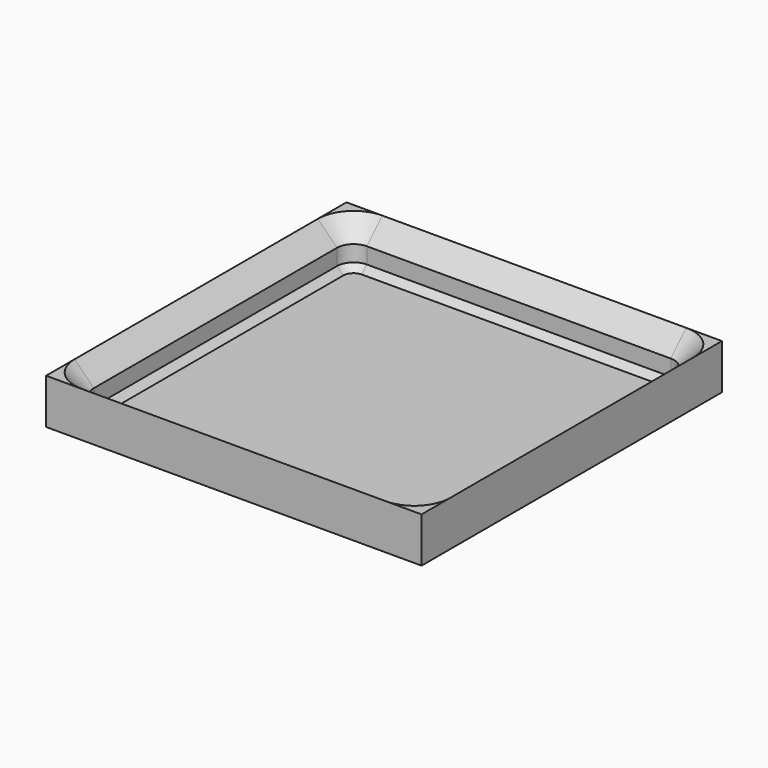
from build123d import *

# Parameters (mm, degrees)
SKETCH_W       = 42
SKETCH_H       = 42
PAD_DEPTH      = 4.65
PAD_DEPTH_BACK = 0.4
POCKET_DEPTH   = 4.651


with BuildPart() as part:
    # Sketch → Pad (new body, two sides)
    with BuildSketch(Plane.XY) as pad_sk:
        Rectangle(SKETCH_W, SKETCH_H)
    extrude(amount=PAD_DEPTH)
    extrude(pad_sk.sketch, amount=-PAD_DEPTH_BACK)

    # SubtractivePipe: sweep along a path in Sketch001
    with BuildLine(Plane.XY) as subtractivepipe_path:
        Line((-17, -21), (17, -21))
        ThreePointArc((17, -21), (19.828427, -19.828427), (21, -17))
        Line((21, -17), (21, 17))
        ThreePointArc((21, 17), (19.828427, 19.828427), (17, 21))
        Line((17, 21), (-17, 21))
        ThreePointArc((-17, 21), (-19.828427, 19.828427), (-21, 17))
        Line((-21, 17), (-21, -17))
        ThreePointArc((-21, -17), (-19.828427, -19.828427), (-17, -21))
    # Sketch002 → SubtractivePipe (sweep, cut)
    with BuildSketch(Plane.XZ):
        Polygon((21, 4.65), (18.85, 2.5), (18.85, 0.7), (18.15, 0), (18.15, 4.65), align=None)
    sweep(path=subtractivepipe_path.line, mode=Mode.SUBTRACT)

    # Sketch003 → Pocket (cut, through all)
    with BuildSketch(Plane.XY):
        with BuildLine():
            Line((18.15, -17), (18.15, 17))
            ThreePointArc((18.15, 17), (17.813173, 17.813173), (17, 18.15))
            Line((17, 18.15), (-17, 18.15))
            ThreePointArc((-17, 18.15), (-17.813173, 17.813173), (-18.15, 17))
            Line((-18.15, 17), (-18.15, -17))
            ThreePointArc((-18.15, -17), (-17.813173, -17.813173), (-17, -18.15))
            Line((-17, -18.15), (17, -18.15))
            ThreePointArc((17, -18.15), (17.813173, -17.813173), (18.15, -17))
        make_face()
    extrude(amount=POCKET_DEPTH, mode=Mode.SUBTRACT)


solid = part.part
